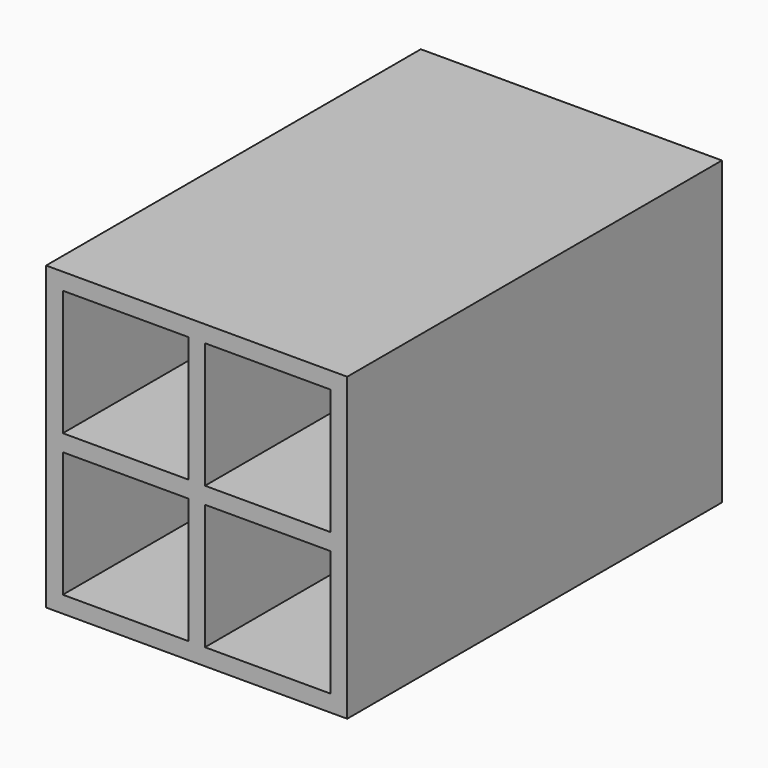
from build123d import *

# Parameters (mm, degrees)
F0_W     = 57.15
F0_H     = 57.15
F1_DEPTH = 88.9
F2_W     = 23.8125
F2_H     = 23.8125
F3_DEPTH = 85.725


with BuildPart() as f1:
    # F0 (on Front) → F1 (new body)
    with BuildSketch(Plane.XZ):
        with Locations((28.575, -28.575)):
            Rectangle(F0_W, F0_H)
    extrude(amount=F1_DEPTH)

    # F2 (on face) → F3 (cut)
    with BuildSketch(Plane.XZ.offset(88.9)):
        with Locations((15.08125, -15.08125)):
            Rectangle(F2_W, F2_H)
        with Locations((15.08125, -42.06875)):
            Rectangle(F2_W, F2_H)
        with Locations((42.06875, -15.08125)):
            Rectangle(F2_W, F2_H)
        with Locations((42.06875, -42.06875)):
            Rectangle(F2_W, F2_H)
    extrude(amount=-F3_DEPTH, mode=Mode.SUBTRACT)


solid = f1.part
